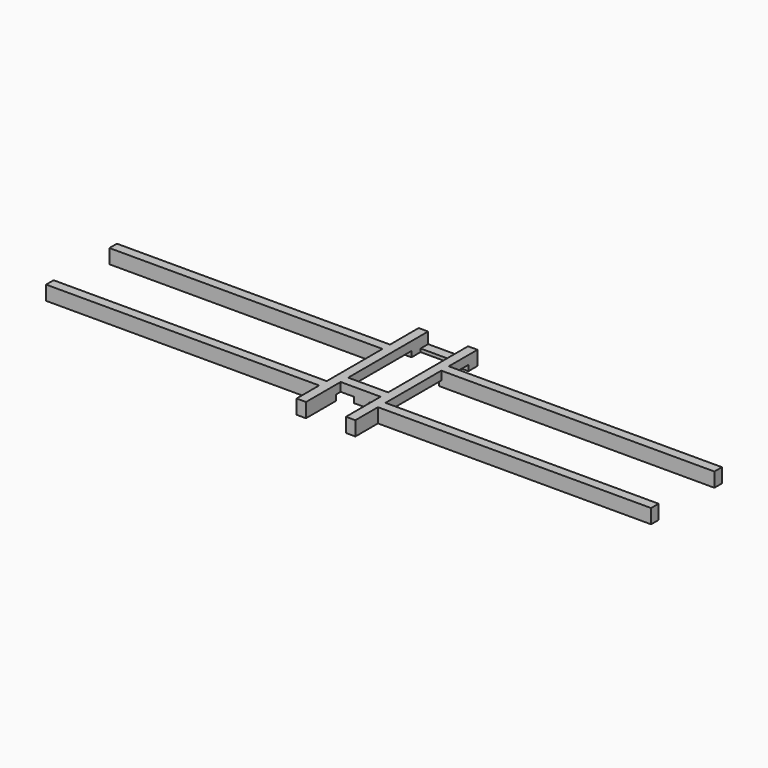
from build123d import *

# Parameters (mm, degrees)
BOX012_W     = 8
BOX012_H     = 10
BOX012_DEPTH = 3
BOX013_W     = 146
BOX013_H     = 5
BOX013_DEPTH = 7.6
BOX014_W     = 146
BOX014_H     = 5
BOX014_DEPTH = 7.6
BOX015_W     = 146
BOX015_H     = 5
BOX015_DEPTH = 7.6
BOX016_W     = 146
BOX016_H     = 5
BOX016_DEPTH = 7.6
BOX009_W     = 5
BOX009_H     = 50
BOX009_DEPTH = 3
BOX010_W     = 5
BOX010_H     = 60
BOX010_DEPTH = 3
BOX011_W     = 22
BOX011_H     = 5
BOX011_DEPTH = 3
BOX006_W     = 5
BOX006_H     = 81
BOX006_DEPTH = 7.6
BOX007_W     = 22
BOX007_H     = 5
BOX007_DEPTH = 7.6
BOX008_W     = 22
BOX008_H     = 5
BOX008_DEPTH = 1.7
BOX005_W     = 5
BOX005_H     = 81
BOX005_DEPTH = 7.6


with BuildPart() as cube011:
    # Box012 → Box012 (new body)
    with BuildSketch(Plane(origin=(157, 23, 2), x_dir=(1, 0, 0), z_dir=(0, 0, 1))):
        with Locations((4, 5)):
            Rectangle(BOX012_W, BOX012_H)
    extrude(amount=BOX012_DEPTH)


with BuildPart() as cube012:
    # Box013 → Box013 (new body)
    with BuildSketch(Plane(origin=(0, 15, 2), x_dir=(1, 0, 0), z_dir=(0, 0, 1))):
        with Locations((73, 2.5)):
            Rectangle(BOX013_W, BOX013_H)
    extrude(amount=BOX013_DEPTH)


with BuildPart() as cube013:
    # Box014 → Box014 (new body)
    with BuildSketch(Plane(origin=(0, 57, 2), x_dir=(1, 0, 0), z_dir=(0, 0, 1))):
        with Locations((73, 2.5)):
            Rectangle(BOX014_W, BOX014_H)
    extrude(amount=BOX014_DEPTH)


with BuildPart() as cube014:
    # Box015 → Box015 (new body)
    with BuildSketch(Plane(origin=(175, 57, 2), x_dir=(1, 0, 0), z_dir=(0, 0, 1))):
        with Locations((73, 2.5)):
            Rectangle(BOX015_W, BOX015_H)
    extrude(amount=BOX015_DEPTH)


with BuildPart() as cube015:
    # Box016 → Box016 (new body)
    with BuildSketch(Plane(origin=(175, 15, 2), x_dir=(1, 0, 0), z_dir=(0, 0, 1))):
        with Locations((73, 2.5)):
            Rectangle(BOX016_W, BOX016_H)
    extrude(amount=BOX016_DEPTH)


with BuildPart() as cube008:
    # Box009 → Box009 (new body)
    with BuildSketch(Plane(origin=(134.4, 20, 2), x_dir=(1, 0, 0), z_dir=(0, 0, 1))):
        with Locations((2.5, 25)):
            Rectangle(BOX009_W, BOX009_H)
    extrude(amount=BOX009_DEPTH)


with BuildPart() as cube009:
    # Box010 → Box010 (new body)
    with BuildSketch(Plane(origin=(160.6, 15, 2), x_dir=(1, 0, 0), z_dir=(0, 0, 1))):
        with Locations((2.5, 30)):
            Rectangle(BOX010_W, BOX010_H)
    extrude(amount=BOX010_DEPTH)


with BuildPart() as cube010:
    # Box011 → Box011 (new body)
    with BuildSketch(Plane(origin=(139, 23, 2), x_dir=(1, 0, 0), z_dir=(0, 0, 1))):
        with Locations((11, 2.5)):
            Rectangle(BOX011_W, BOX011_H)
    extrude(amount=BOX011_DEPTH)


with BuildPart() as cube005:
    # Box006 → Box006 (new body)
    with BuildSketch(Plane(origin=(160.6, 0, 2), x_dir=(1, 0, 0), z_dir=(0, 0, 1))):
        with Locations((2.5, 40.5)):
            Rectangle(BOX006_W, BOX006_H)
    extrude(amount=BOX006_DEPTH)


with BuildPart() as cube006:
    # Box007 → Box007 (new body)
    with BuildSketch(Plane(origin=(139, 23, 2), x_dir=(1, 0, 0), z_dir=(0, 0, 1))):
        with Locations((11, 2.5)):
            Rectangle(BOX007_W, BOX007_H)
    extrude(amount=BOX007_DEPTH)


with BuildPart() as cube007:
    # Box008 → Box008 (new body)
    with BuildSketch(Plane(origin=(139, 76, 2), x_dir=(1, 0, 0), z_dir=(0, 0, 1))):
        with Locations((11, 2.5)):
            Rectangle(BOX008_W, BOX008_H)
    extrude(amount=BOX008_DEPTH)


with BuildPart() as holder:
    # Box005 → Box005 (new body)
    with BuildSketch(Plane(origin=(134.4, 0, 2), x_dir=(1, 0, 0), z_dir=(0, 0, 1))):
        with Locations((2.5, 40.5)):
            Rectangle(BOX005_W, BOX005_H)
    extrude(amount=BOX005_DEPTH)

    # Fusion003: union Cube005, Cube006, Cube007
    add(cube005.part)
    add(cube006.part)
    add(cube007.part)

    # Cut009: cut Cube010
    add(cube010.part, mode=Mode.SUBTRACT)

    # Cut010: cut Cube009
    add(cube009.part, mode=Mode.SUBTRACT)

    # Cut011: cut Cube008
    add(cube008.part, mode=Mode.SUBTRACT)


with BuildPart() as holder_1:
    # Cut011 placement: moved
    add(holder.part.moved(Location((10.5, 0, 0))))

    # Fusion004: union Cube011, Cube012, Cube013, Cube014, Cube015
    add(cube011.part)
    add(cube012.part)
    add(cube013.part)
    add(cube014.part)
    add(cube015.part)


solid = holder_1.part
